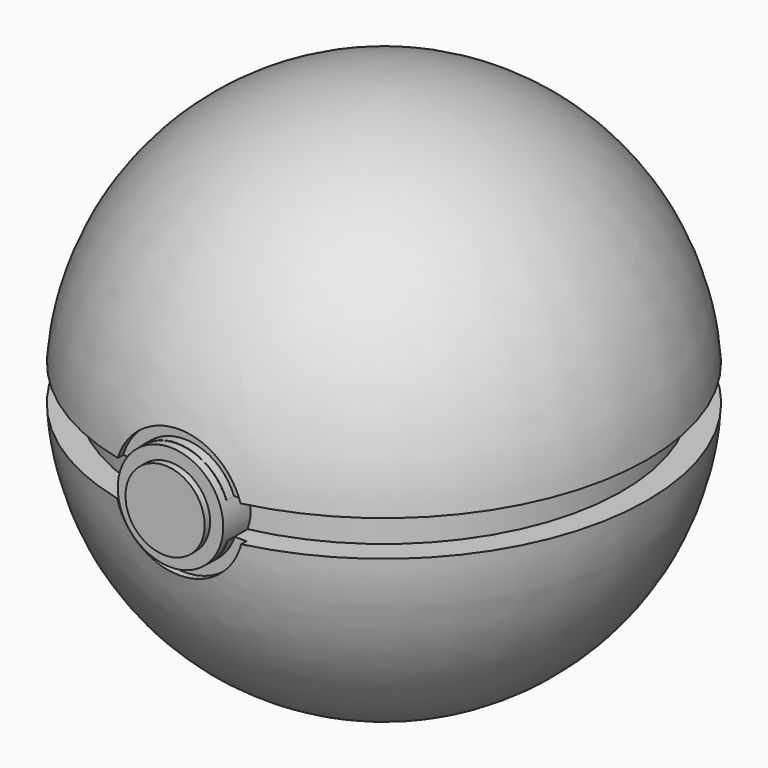
from build123d import *

# Parameters (mm, degrees)
F2_R     = 13.805057
F3_DEPTH = 69.85
F4_R     = 10.366386
F5_DEPTH = 71.628
F6_R     = 16.813971
F6_R_2   = 13.875913
F7_DEPTH = 6.35


with BuildPart() as f1:
    # F0 (on Front) → F1 (revolve)
    with BuildSketch(Plane.XZ):
        with BuildLine():
            Line((0, 69.089858), (0, -69.089858))
            ThreePointArc((0, -69.089858), (47.277087, -50.381401), (68.950377, -4.387947))
            Line((68.950377, -4.387947), (62.40018, -4.387947))
            Line((62.40018, -4.387947), (62.40018, 4.964443))
            Line((62.40018, 4.964443), (68.911268, 4.964443))
            ThreePointArc((68.911268, 4.964443), (47.065995, 50.578658), (0, 69.089858))
        make_face()
    revolve(axis=Axis((0, 0, 0), (0, 0, -1)))

    # F2 (on Front) → F3 (join)
    with BuildSketch(Plane.XZ):
        Circle(F2_R)
    extrude(amount=F3_DEPTH)

    # F4 (on Front) → F5 (join)
    with BuildSketch(Plane.XZ):
        Circle(F4_R)
    extrude(amount=F5_DEPTH)

    # F6 (on face) → F7 (cut)
    with BuildSketch(Plane.XZ.offset(71.628)):
        Circle(F6_R)
        Circle(F6_R_2, mode=Mode.SUBTRACT)
    extrude(amount=-F7_DEPTH, mode=Mode.SUBTRACT)


solid = f1.part
